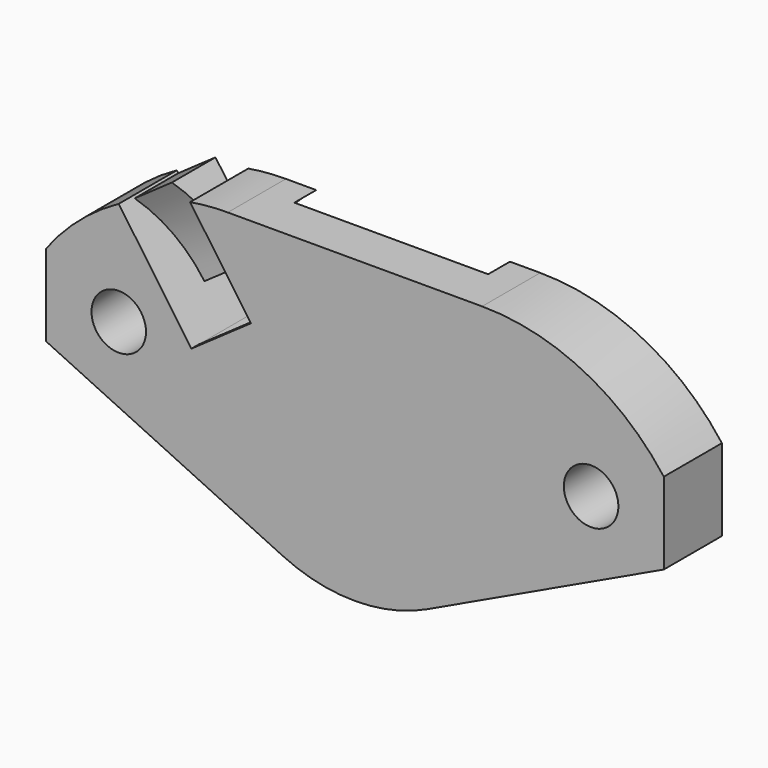
from build123d import *

# Parameters (mm, degrees)
PAD096_DEPTH    = 4
SKETCH294_R     = 1.5
POCKET172_DEPTH = 6
SKETCH295_R     = 0.95
POCKET173_DEPTH = 1.5
SKETCH299_W     = 4.5
SKETCH299_H     = 8
POCKET175_DEPTH = 3
POCKET176_DEPTH = 5
POCKET177_DEPTH = 5
PAD107_DEPTH    = 2.5


with BuildPart() as part:
    # Sketch278 → Pad096 (new body)
    with BuildSketch(Plane.XZ.offset(24)):
        with BuildLine():
            Line((-17, -2.25), (-17, 2.25))
            ThreePointArc((-7, 7.25), (-12.5901699437, 5.9303398875), (-17, 2.25))
            Line((-7, 7.25), (0, 7.25))
            Line((0, 7.25), (0, -9.3))
            ThreePointArc((-3.9748544782, -8.4077661645), (-2.0368817676, -9.0742003871), (0, -9.3))
            Line((-3.9748544782, -8.4077661645), (-17, -2.25))
        make_face()
    pad096 = extrude(amount=-PAD096_DEPTH)

    # Sketch294 (on Face8 of Pad096) → Pocket172 (cut)
    with BuildSketch(Plane(origin=(0, -20, 0), x_dir=(1, 0, 0), z_dir=(0, 1, 0))):
        with Locations((-13, 0)):
            Circle(SKETCH294_R)
    pocket172 = extrude(amount=-POCKET172_DEPTH, mode=Mode.SUBTRACT)

    # Sketch295 (on Face5 of Pocket172) → Pocket173 (cut)
    with BuildSketch(Plane(origin=(0, -20, 0), x_dir=(1, 0, 0), z_dir=(0, 1, 0))):
        with BuildLine():
            Line((0, 9), (0, -9))
            ThreePointArc((-7.5, -4.9749371855), (-4.2559114964, -7.9301461106), (0, -9))
            Line((-7.5, -4.9749371855), (-7.5, 4.9749371855))
            ThreePointArc((0, 9), (-4.2559114964, 7.9301461106), (-7.5, 4.9749371855))
        make_face()
        with Locations((-6, 0)):
            Circle(SKETCH295_R, mode=Mode.SUBTRACT)
    pocket173 = extrude(amount=-POCKET173_DEPTH, mode=Mode.SUBTRACT)

    # Sketch299 (on Face5 of Pocket172) → Pocket175 (cut)
    with BuildSketch(Plane(origin=(0, -20, 0), x_dir=(1, 0, 0), z_dir=(0, 1, 0))):
        with Locations((-2.25, 0)):
            Rectangle(SKETCH299_W, SKETCH299_H)
    pocket175 = extrude(amount=-POCKET175_DEPTH, mode=Mode.SUBTRACT)

    # Mirrored012: Pad096, Pocket172, Pocket173, Pocket175 across Sketch278 V_Axis
    add(pad096.mirror(Plane(origin=(0, -24, 0), x_dir=(0, -1, 0), z_dir=(1, 0, 0))))
    add(pocket172.mirror(Plane(origin=(0, -24, 0), x_dir=(0, -1, 0), z_dir=(1, 0, 0))), mode=Mode.SUBTRACT)
    add(pocket173.mirror(Plane(origin=(0, -24, 0), x_dir=(0, -1, 0), z_dir=(1, 0, 0))), mode=Mode.SUBTRACT)
    add(pocket175.mirror(Plane(origin=(0, -24, 0), x_dir=(0, -1, 0), z_dir=(1, 0, 0))), mode=Mode.SUBTRACT)

    # Sketch300 → Pocket176 (cut)
    with BuildSketch(Plane.XZ.offset(24)):
        Polygon((-9, 0), (-13.5886114908, 6.5532163543), (-10.3120033137, 8.8475220997), (-5.7233918228, 2.2943057454), align=None)
    extrude(amount=-POCKET176_DEPTH, mode=Mode.SUBTRACT)

    # Sketch301 → Pocket177 (cut)
    with BuildSketch(Plane.XZ.offset(23.5)):
        with BuildLine():
            ThreePointArc((-3.5, -7.7459666924), (0, -8.5), (3.5, -7.7459666924))
            Line((3.5, -7.7459666924), (3.5, -3.7459666924))
            Line((3.5, -3.7459666924), (-6.7056942546, 3.2766081772))
            Line((-6.7056942546, 3.2766081772), (-9, 0))
            Line((-9, 0), (-3.5, -7.7459666924))
        make_face()
    extrude(amount=-POCKET177_DEPTH, mode=Mode.SUBTRACT)

    # Sketch302 (on Face13 of Pocket177) → Pad107 (join)
    with BuildSketch(Plane(origin=(-6.039090645, 0, -4.2286167935), x_dir=(-0.5735764364, 0, 0.8191520443), z_dir=(0.8191520443, 0, 0.5735764364))):
        with BuildLine():
            Line((12, 20), (12, 23))
            ThreePointArc((7.4, 21.5), (9.8191940807, 21.8844714859), (12, 23))
            Line((7.4, 21.5), (7.4, 20))
            Line((7.4, 20), (12, 20))
        make_face()
    extrude(amount=PAD107_DEPTH)


solid = part.part
